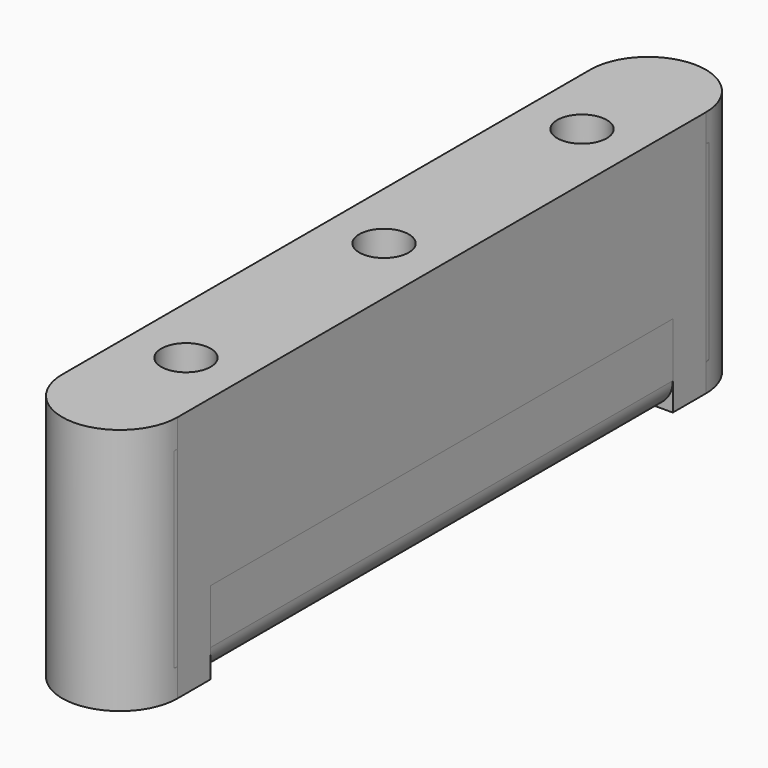
from build123d import *

# Parameters (mm, degrees)
SKETCH_W             = 7
SKETCH_H             = 45
SKETCH_R             = 1.5
PAD_DEPTH            = 15
POCKET_DEPTH         = 7.001
FILLET_R             = 2.5
CHAMFER_SIZE         = 0.5
FILLET001_R          = 1.7
SKETCH002_R          = 2.5
POCKET001_DEPTH      = 5
SKETCH003_R          = 1.5
PAD001_DEPTH         = 15
SKETCH004_W          = 35
SKETCH004_H          = 5
POCKET002_DEPTH      = 7.001
SKETCH005_R          = 2.75
POCKET003_DEPTH      = 5
POCKET003_DEPTH_BACK = -5
SKETCH006_W          = 1
SKETCH006_H          = 3.5
PAD002_DEPTH         = 0.3
SKETCH007_W          = 1
SKETCH007_H          = 3.5
PAD003_DEPTH         = 0.3
CHAMFER001_SIZE      = 0.29


with BuildPart() as body:
    # Sketch → Pad (new body)
    with BuildSketch(Plane.XY):
        Rectangle(SKETCH_W, SKETCH_H)
        Circle(SKETCH_R, mode=Mode.SUBTRACT)
        with Locations((0, 15)):
            Circle(SKETCH_R, mode=Mode.SUBTRACT)
        with Locations((0, -15)):
            Circle(SKETCH_R, mode=Mode.SUBTRACT)
    extrude(amount=PAD_DEPTH)

    # Sketch001 (on Face3 of Pad) → Pocket (cut, through all)
    with BuildSketch(Plane.YZ.offset(3.5)):
        Polygon((-17.5, 10), (17.5, 10), (17.5, 11.2), (17, 11.2), (17, 15), (-17, 15), (-17, 11.2), (-17.5, 11.2), align=None)
    extrude(amount=-POCKET_DEPTH, mode=Mode.SUBTRACT)

    # Fillet
    fillet_edges = [body.edges().sort_by_distance(p)[0] for p in [
        (3.5, 22.5, 7.5),
        (-3.5, 22.5, 7.5),
        (0, 22.5, 0),
        (0, 22.5, 15),
        (-3.5, -22.5, 7.5),
        (3.5, -22.5, 7.5),
        (0, -22.5, 0),
        (0, -22.5, 15),
    ]]
    fillet(fillet_edges, radius=FILLET_R)

    # Chamfer
    chamfer_edges = [body.edges().sort_by_distance(p)[0] for p in [
        (-3.5, -17, 13.1),
        (3.5, -17, 13.1),
        (0, -17, 15),
        (3.5, 17, 13.1),
        (0, 17, 15),
        (-3.5, 17, 13.1),
        (3.5, 0, 10),
        (-3.5, 0, 10),
    ]]
    chamfer(chamfer_edges, length=CHAMFER_SIZE)

    # Fillet001
    fillet001_edges = [body.edges().sort_by_distance(p)[0] for p in [
        (-3.5, 0, 0),
        (3.5, 0, 0),
        (-3.5, -18.75, 15),
        (3.5, -18.75, 15),
        (-3.5, 18.75, 15),
        (3.5, 18.75, 15),
    ]]
    fillet(fillet001_edges, radius=FILLET001_R)

    # Sketch002 (on Face19 of Chamfer) → Pocket001 (cut)
    with BuildSketch(Plane.XY.offset(10)):
        with Locations((0, -15)):
            Circle(SKETCH002_R)
        Circle(SKETCH002_R)
        with Locations((0, 15)):
            Circle(SKETCH002_R)
    extrude(amount=-POCKET001_DEPTH, mode=Mode.SUBTRACT)


with BuildPart() as body001:
    # Sketch003 → Pad001 (new body)
    with BuildSketch(Plane.XY):
        with BuildLine():
            ThreePointArc((3.5, 20), (0, 23.5), (-3.5, 20))
            Line((-3.5, 20), (-3.5, -20))
            ThreePointArc((-3.5, -20), (0, -23.5), (3.5, -20))
            Line((3.5, 20), (3.5, -20))
        make_face()
        with Locations((0, 15)):
            Circle(SKETCH003_R, mode=Mode.SUBTRACT)
        Circle(SKETCH003_R, mode=Mode.SUBTRACT)
        with Locations((0, -15)):
            Circle(SKETCH003_R, mode=Mode.SUBTRACT)
    extrude(amount=PAD001_DEPTH)

    # Sketch004 (on Face4 of Pad001) → Pocket002 (cut, through all)
    with BuildSketch(Plane.YZ.offset(3.5)):
        with Locations((0, 2.5)):
            Rectangle(SKETCH004_W, SKETCH004_H)
    extrude(amount=-POCKET002_DEPTH, mode=Mode.SUBTRACT)

    # Sketch005 (on Face7 of Pocket002) → Pocket003 (cut, two sides)
    with BuildSketch(Plane(origin=(0, 0, 5), x_dir=(1, 0, 0), z_dir=(0, 0, -1))) as pocket003_sk:
        with Locations((0, 15)):
            Circle(SKETCH005_R)
        Circle(SKETCH005_R)
        with Locations((0, -15)):
            Circle(SKETCH005_R)
    extrude(amount=-POCKET003_DEPTH, mode=Mode.SUBTRACT)
    extrude(pocket003_sk.sketch, amount=-POCKET003_DEPTH_BACK, mode=Mode.SUBTRACT)

    # Sketch006 (on Face12 of Pocket003) → Pad002 (join)
    with BuildSketch(Plane(origin=(0, -17.5, 0), x_dir=(-1, 0, 0), z_dir=(0, 1, 0))):
        with Locations((-2, 1.75)):
            Rectangle(SKETCH006_W, SKETCH006_H)
        with Locations((2, 1.75)):
            Rectangle(SKETCH006_W, SKETCH006_H)
    extrude(amount=PAD002_DEPTH)

    # Sketch007 (on Face10 of Pad002) → Pad003 (join)
    with BuildSketch(Plane.XZ.offset(-17.5)):
        with Locations((-2, 1.75)):
            Rectangle(SKETCH007_W, SKETCH007_H)
        with Locations((2, 1.75)):
            Rectangle(SKETCH007_W, SKETCH007_H)
    extrude(amount=PAD003_DEPTH)

    # Chamfer001
    chamfer001_edges = [body001.edges().sort_by_distance(p)[0] for p in [
        (-2, 17.2, 0),
        (-2, 17.2, 3.5),
        (2, 17.2, 3.5),
        (2, 17.2, 0),
        (-2, -17.2, 0),
        (-2, -17.2, 3.5),
        (2, -17.2, 3.5),
        (2, -17.2, 0),
    ]]
    chamfer(chamfer001_edges, length=CHAMFER001_SIZE)


solid = Compound([body.part, body001.part])
